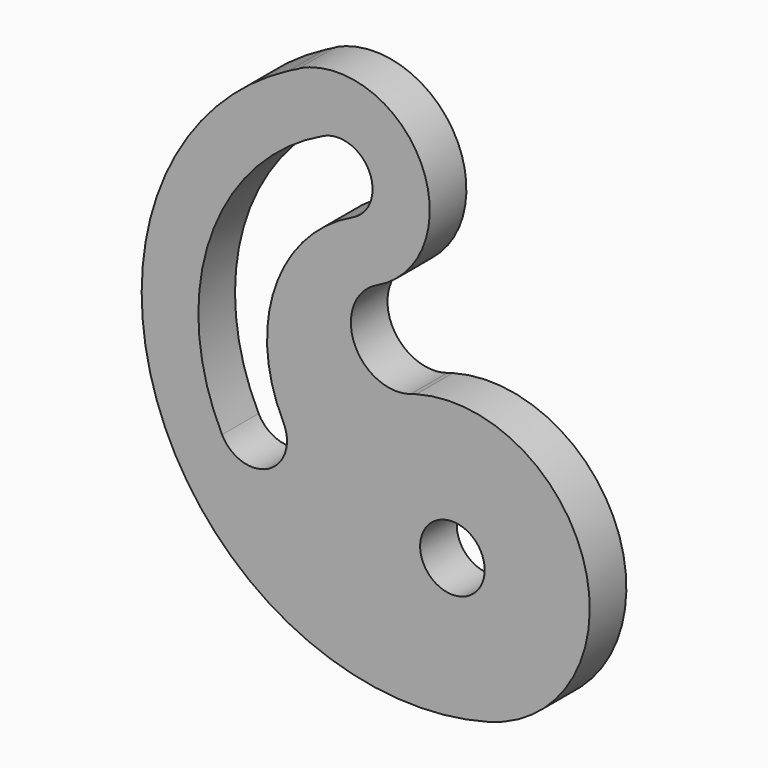
from build123d import *

# Parameters (mm, degrees)
F0_R     = 179.07
F1_DEPTH = 254


with BuildPart() as f1:
    # F0 (on Front) → F1 (new body)
    with BuildSketch(Plane.XZ):
        with BuildLine():
            ThreePointArc((-907.827361, 2084.969433), (-1618.596621, 177.985708), (200.134651, -735.24834))
            ThreePointArc((200.134651, -735.24834), (735.24834, 200.134651), (-200.134651, 735.24834))
            ThreePointArc((-200.134651, 735.24834), (-216.155012, 730.698988), (-232.072124, 725.800613))
            ThreePointArc((-232.072124, 725.800613), (-545.828305, 874.827721), (-417.492703, 1197.600076))
            ThreePointArc((-417.492703, 1197.600076), (-173.887257, 1873.458336), (-849.745517, 2117.063781))
            Line((-849.745517, 2117.063781), (-848.513872, 2114.443897))
            ThreePointArc((-848.513872, 2114.443897), (-878.330756, 2100.028924), (-907.827361, 2084.969433))
        make_face()
        Circle(F0_R, mode=Mode.SUBTRACT)
        with BuildLine():
            ThreePointArc((-714.666512, 1829.731373), (-461.219665, 1738.379331), (-552.571707, 1484.932484))
            ThreePointArc((-552.571707, 1484.932484), (-983.688925, 1004.099403), (-938.599611, 359.8716))
            ThreePointArc((-938.599611, 359.8716), (-1022.096385, 103.729474), (-1278.238511, 187.226248))
            ThreePointArc((-1278.238511, 187.226248), (-1344.065553, 1127.750874), (-714.666512, 1829.731373))
        make_face(mode=Mode.SUBTRACT)
    extrude(amount=F1_DEPTH)


solid = f1.part
